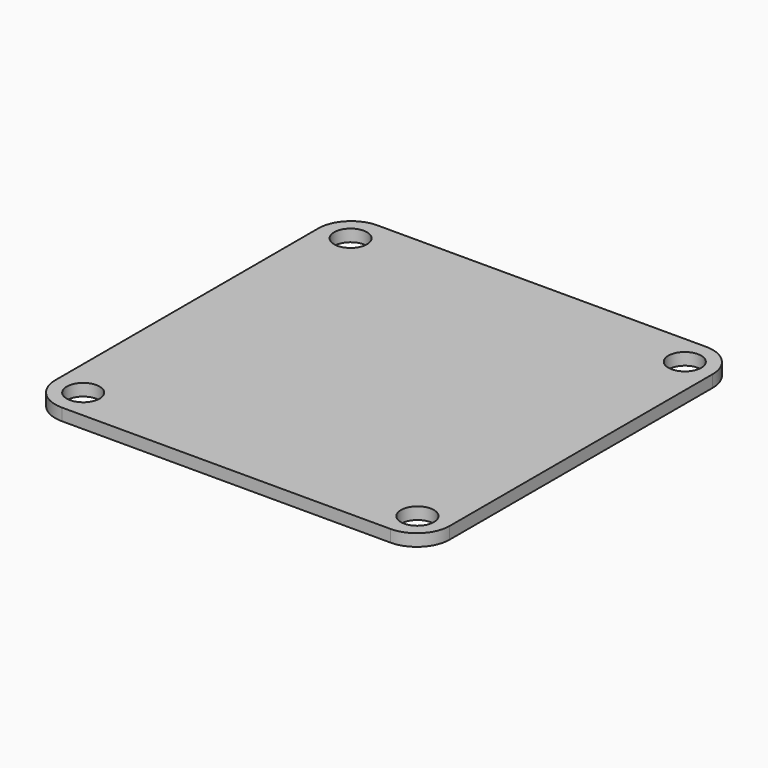
from build123d import *

# Parameters (mm, degrees)
F0_W     = 36
F0_H     = 36
F1_DEPTH = 1.1
F3_D     = 3
F4_R     = 3


with BuildPart() as f1:
    # F0 (on Top) → F1 (new body)
    with BuildSketch(Plane.XY):
        with Locations((18, 18)):
            Rectangle(F0_W, F0_H)
    extrude(amount=F1_DEPTH)

    # F3 (through all)
    with Locations(Plane.XY.offset(1.1)):
        with Locations((2.75, 33.25), (33.25, 33.25), (2.75, 2.75), (33.25, 2.75)):
            Hole(F3_D / 2)

    # F4
    f4_edges = [f1.edges().sort_by_distance(p)[0] for p in [
        (36, 0, 0.55),
        (0, 0, 0.55),
        (0, 36, 0.55),
        (36, 36, 0.55),
    ]]
    fillet(f4_edges, radius=F4_R)


solid = f1.part
